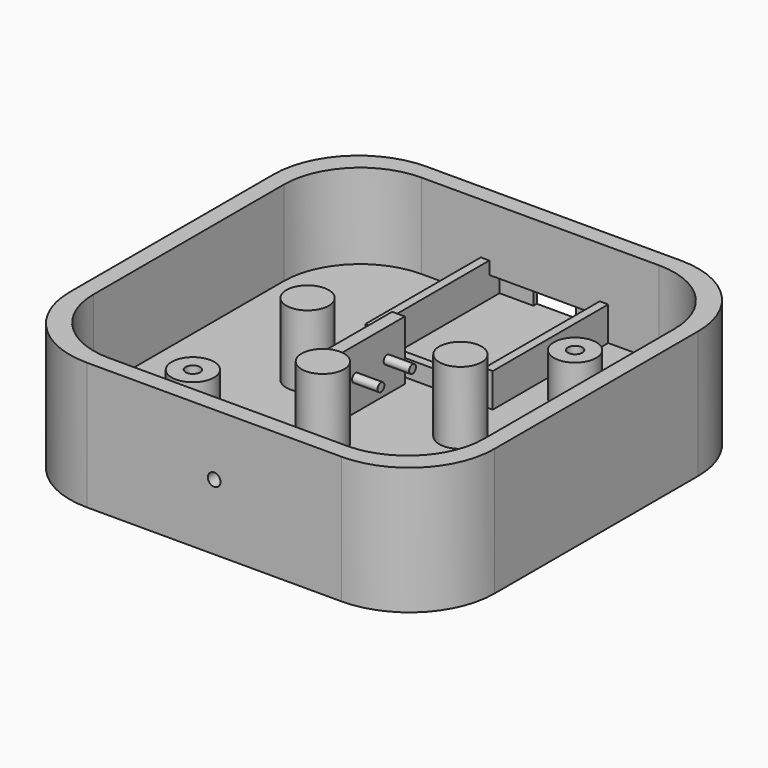
from build123d import *

# Parameters (mm, degrees)
CYLINDER009_R     = 1.5
CYLINDER009_DEPTH = 10
CYLINDER008_R     = 3.5
CYLINDER008_DEPTH = 8
CYLINDER006_R     = 1.7
CYLINDER006_DEPTH = 36
CYLINDER007_R     = 3.5
CYLINDER007_DEPTH = 8
CYLINDER005_R     = 1.7
CYLINDER005_DEPTH = 36
CYLINDER004_R     = 5
CYLINDER004_DEPTH = 10
CYLINDER003_R     = 5
CYLINDER003_DEPTH = 10
SKETCH002_W       = 19.8
SKETCH002_H       = 14
PAD001_DEPTH      = 3
SKETCH003_R       = 1
PAD002_DEPTH      = 6
CYLINDER_R        = 5
CYLINDER_DEPTH    = 17
CYLINDER001_R     = 5
CYLINDER001_DEPTH = 17
CYLINDER002_R     = 5
CYLINDER002_DEPTH = 17
BOX_W             = 2
BOX_H             = 34
BOX_DEPTH         = 10
BOX001_W          = 2
BOX001_H          = 34
BOX001_DEPTH      = 10
BOX004_W          = 30
BOX004_H          = 2
BOX004_DEPTH      = 6
BOX003_W          = 26
BOX003_H          = 10
BOX003_DEPTH      = 5
BOX002_W          = 10
BOX002_H          = 10
BOX002_DEPTH      = 4
PAD_DEPTH         = 30
POCKET_DEPTH      = 20


with BuildPart() as taladro_led:
    # Cylinder009 → Cylinder009 (new body)
    with BuildSketch(Plane(origin=(0, -44, 15.5), x_dir=(1, 0, 0), z_dir=(0, -1, 0))):
        Circle(CYLINDER009_R)
    extrude(amount=CYLINDER009_DEPTH)


with BuildPart() as cylinder008:
    # Cylinder008 → Cylinder008 (new body)
    with BuildSketch(Plane(origin=(25, 25, -4), x_dir=(1, 0, 0), z_dir=(0, 0, 1))):
        Circle(CYLINDER008_R)
    extrude(amount=CYLINDER008_DEPTH)


with BuildPart() as fusion002:
    # Cylinder006 → Cylinder006 (new body)
    with BuildSketch(Plane(origin=(25, 25, -4), x_dir=(1, 0, 0), z_dir=(0, 0, 1))):
        Circle(CYLINDER006_R)
    extrude(amount=CYLINDER006_DEPTH)

    # Fusion002: union Cylinder008
    add(cylinder008.part)


with BuildPart() as cylinder007:
    # Cylinder007 → Cylinder007 (new body)
    with BuildSketch(Plane(origin=(-25, -25, -4), x_dir=(1, 0, 0), z_dir=(0, 0, 1))):
        Circle(CYLINDER007_R)
    extrude(amount=CYLINDER007_DEPTH)


with BuildPart() as fusion001:
    # Cylinder005 → Cylinder005 (new body)
    with BuildSketch(Plane(origin=(-25, -25, -4), x_dir=(1, 0, 0), z_dir=(0, 0, 1))):
        Circle(CYLINDER005_R)
    extrude(amount=CYLINDER005_DEPTH)

    # Fusion001: union Cylinder007
    add(cylinder007.part)


with BuildPart() as cylinder004:
    # Cylinder004 → Cylinder004 (new body)
    with BuildSketch(Plane(origin=(25, 25, 10), x_dir=(1, 0, 0), z_dir=(0, 0, 1))):
        Circle(CYLINDER004_R)
    extrude(amount=CYLINDER004_DEPTH)


with BuildPart() as cylinder003:
    # Cylinder003 → Cylinder003 (new body)
    with BuildSketch(Plane(origin=(-25, -25, 10), x_dir=(1, 0, 0), z_dir=(0, 0, 1))):
        Circle(CYLINDER003_R)
    extrude(amount=CYLINDER003_DEPTH)


with BuildPart() as obj1:
    # Sketch002 → Pad001 (new body)
    with BuildSketch(Plane.YZ):
        with Locations((0, 7)):
            Rectangle(SKETCH002_W, SKETCH002_H)
    extrude(amount=PAD001_DEPTH)

    # Sketch003 (on Face6 of Pad001) → Pad002 (join)
    with BuildSketch(Plane.YZ.offset(3)):
        with Locations((-4.65, 7.2)):
            Circle(SKETCH003_R)
        with Locations((4.65, 7.2)):
            Circle(SKETCH003_R)
    extrude(amount=PAD002_DEPTH)


with BuildPart() as obj1_1:
    # Body002 placement: moved
    add(obj1.part.moved(Location((-6, 0, 10))))


with BuildPart() as cylinder:
    # Cylinder → Cylinder (new body)
    with BuildSketch(Plane(origin=(-18, 0, 10), x_dir=(1, 0, 0), z_dir=(0, 0, 1))):
        Circle(CYLINDER_R)
    extrude(amount=CYLINDER_DEPTH)


with BuildPart() as cylinder001:
    # Cylinder001 → Cylinder001 (new body)
    with BuildSketch(Plane(origin=(18, 0, 10), x_dir=(1, 0, 0), z_dir=(0, 0, 1))):
        Circle(CYLINDER001_R)
    extrude(amount=CYLINDER001_DEPTH)


with BuildPart() as cylinder002:
    # Cylinder002 → Cylinder002 (new body)
    with BuildSketch(Plane(origin=(0, -18, 10), x_dir=(1, 0, 0), z_dir=(0, 0, 1))):
        Circle(CYLINDER002_R)
    extrude(amount=CYLINDER002_DEPTH)


with BuildPart() as box:
    # Box → Box (new body)
    with BuildSketch(Plane(origin=(-14, 12, 8), x_dir=(1, 0, 0), z_dir=(0, 0, 1))):
        with Locations((1, 17)):
            Rectangle(BOX_W, BOX_H)
    extrude(amount=BOX_DEPTH)


with BuildPart() as box001:
    # Box001 → Box001 (new body)
    with BuildSketch(Plane(origin=(14, 12, 8), x_dir=(1, 0, 0), z_dir=(0, 0, 1))):
        with Locations((1, 17)):
            Rectangle(BOX001_W, BOX001_H)
    extrude(amount=BOX001_DEPTH)


with BuildPart() as box004:
    # Box004 → Box004 (new body)
    with BuildSketch(Plane(origin=(-14, 12, 8), x_dir=(1, 0, 0), z_dir=(0, 0, 1))):
        with Locations((15, 1)):
            Rectangle(BOX004_W, BOX004_H)
    extrude(amount=BOX004_DEPTH)


with BuildPart() as obj2:
    # Box003 → Box003 (new body)
    with BuildSketch(Plane(origin=(-12, 39, 10), x_dir=(1, 0, 0), z_dir=(0, 0, 1))):
        with Locations((13, 5)):
            Rectangle(BOX003_W, BOX003_H)
    extrude(amount=BOX003_DEPTH)


with BuildPart() as fusion:
    # Box002 → Box002 (new body)
    with BuildSketch(Plane(origin=(-4, 41, 10), x_dir=(1, 0, 0), z_dir=(0, 0, 1))):
        with Locations((5, 5)):
            Rectangle(BOX002_W, BOX002_H)
    extrude(amount=BOX002_DEPTH)

    # Fusion: union obj2
    add(obj2.part)


with BuildPart() as cut003:
    # Sketch → Pad (new body)
    with BuildSketch(Plane.XY):
        with BuildLine():
            Line((-30, 50), (30, 50))
            ThreePointArc((50, 30), (44.142136, 44.142136), (30, 50))
            Line((50, 30), (50, -30))
            ThreePointArc((30, -50), (44.142136, -44.142136), (50, -30))
            Line((30, -50), (-30, -50))
            ThreePointArc((-50, -30), (-44.142136, -44.142136), (-30, -50))
            Line((-50, -30), (-50, 30))
            ThreePointArc((-30, 50), (-44.142136, 44.142136), (-50, 30))
        make_face()
    extrude(amount=PAD_DEPTH)

    # Sketch001 (on Face10 of Pad) → Pocket (cut)
    with BuildSketch(Plane.XY.offset(30)):
        with BuildLine():
            Line((-28, 46), (28, 46))
            ThreePointArc((46, 28), (40.727922, 40.727922), (28, 46))
            Line((46, 28), (46, -28))
            ThreePointArc((28, -46), (40.727922, -40.727922), (46, -28))
            Line((28, -46), (-28, -46))
            ThreePointArc((-46, -28), (-40.727922, -40.727922), (-28, -46))
            Line((-46, -28), (-46, 28))
            ThreePointArc((-28, 46), (-40.727922, 40.727922), (-46, 28))
        make_face()
    extrude(amount=-POCKET_DEPTH, mode=Mode.SUBTRACT)

    # Cut: cut Fusion
    add(fusion.part, mode=Mode.SUBTRACT)

    # Fusion003: union Cylinder004, Cylinder003, obj1, Cylinder, Cylinder001, Cylinder002, Box, Box001, Box004
    add(cylinder004.part)
    add(cylinder003.part)
    add(obj1_1.part)
    add(cylinder.part)
    add(cylinder001.part)
    add(cylinder002.part)
    add(box.part)
    add(box001.part)
    add(box004.part)

    # Cut001: cut Fusion001
    add(fusion001.part, mode=Mode.SUBTRACT)

    # Cut002: cut Fusion002
    add(fusion002.part, mode=Mode.SUBTRACT)

    # Cut003: cut Taladro LED
    add(taladro_led.part, mode=Mode.SUBTRACT)


solid = cut003.part
